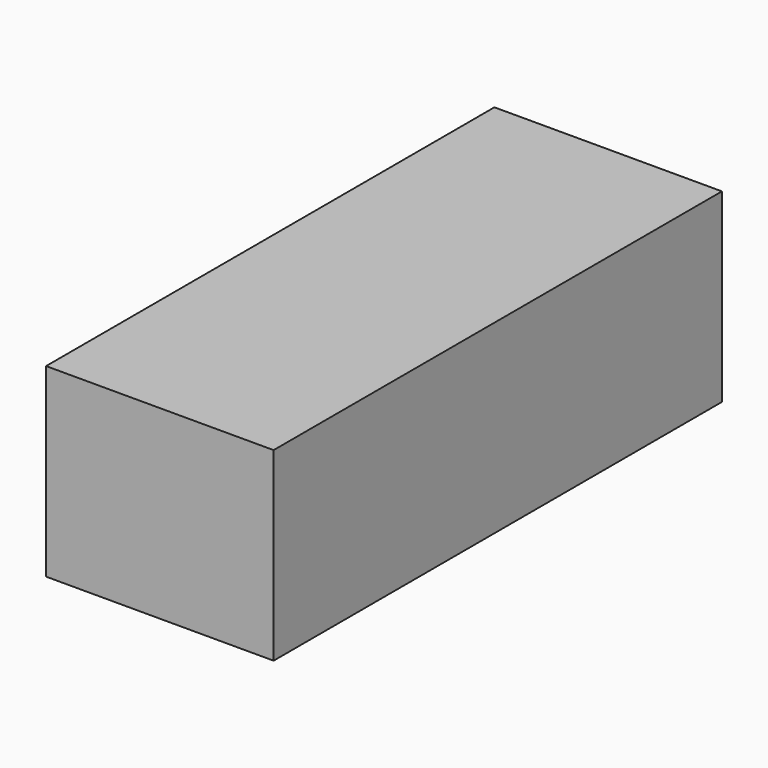
from build123d import *

# Parameters (mm, degrees)
F0_W     = 27
F0_H     = 66.5
F1_DEPTH = 22


with BuildPart() as f1:
    # F0 (on Top) → F1 (new body)
    with BuildSketch(Plane.XY):
        with Locations((-8.99896, 4.833504)):
            Rectangle(F0_W, F0_H)
    extrude(amount=F1_DEPTH)


with BuildPart() as f1_1:
    # F2: moved
    add(f1.part.moved(Location((0, 0, 7.3))))


solid = f1_1.part
